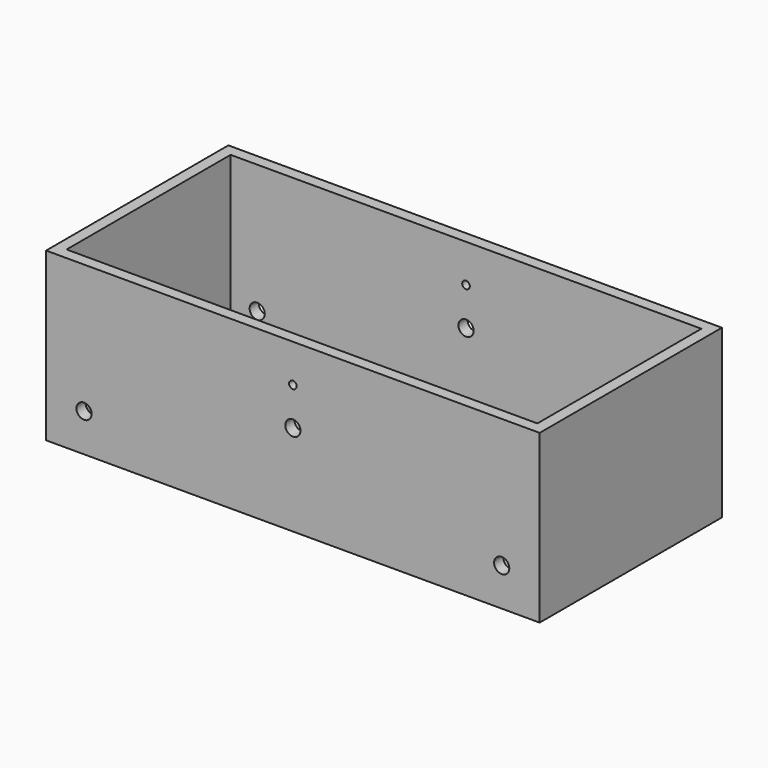
from build123d import *

# Parameters (mm, degrees)
F0_W     = 130
F0_H     = 60
F0_W_2   = 124
F0_H_2   = 54
F1_DEPTH = 44
F2_R     = 2
F2_R_2   = 1
F3_DEPTH = 60.001
F4_W     = 124
F4_H     = 54
F5_DEPTH = 3


with BuildPart() as f1:
    # F0 (on Top) → F1 (new body)
    with BuildSketch(Plane.XY):
        Rectangle(F0_W, F0_H)
        Rectangle(F0_W_2, F0_H_2, mode=Mode.SUBTRACT)
    extrude(amount=F1_DEPTH)

    # F2 (on face) → F3 (cut, through all)
    with BuildSketch(Plane.XZ.offset(30)):
        with Locations((55, 10)):
            Circle(F2_R)
        with Locations((-55, 10)):
            Circle(F2_R)
        with Locations((0, 24)):
            Circle(F2_R)
        with Locations((0, 34)):
            Circle(F2_R_2)
    extrude(amount=-F3_DEPTH, mode=Mode.SUBTRACT)

    # F4 (on Top) → F5 (join)
    with BuildSketch(Plane.XY):
        Rectangle(F4_W, F4_H)
    extrude(amount=F5_DEPTH)


solid = f1.part
